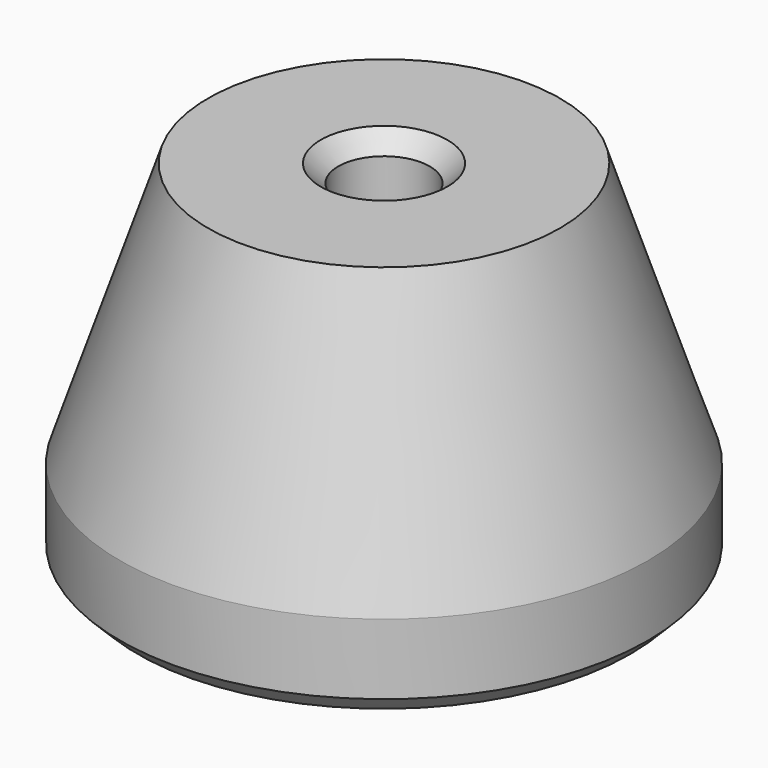
from build123d import *

# Parameters (mm, degrees)
F2_SIZE = 1


with BuildPart() as f1:
    # F0 (on Front) → F1 (revolve)
    with BuildSketch(Plane.XZ):
        Polygon((10, 20), (2.6, 20), (2.6, 0), (15, 0), (15, 5), align=None)
    revolve(axis=Axis((0, 0, 10), (0, 0, -1)))

    # F2
    f2_edges = [f1.edges().sort_by_distance(p)[0] for p in [
        (-2.6, 0, 20),
        (-2.6, 0, 0),
        (-15, 0, 0),
    ]]
    chamfer(f2_edges, length=F2_SIZE)


solid = f1.part
